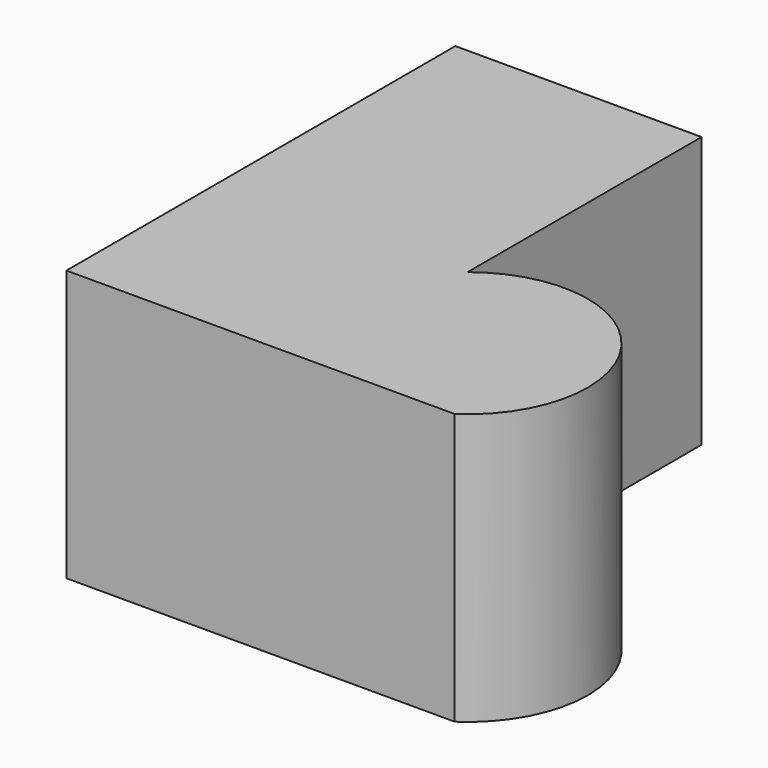
from build123d import *

# Parameters (mm, degrees)
F1_DEPTH = 25.4


with BuildPart() as f1:
    # F0 (on Top) → F1 (new body)
    with BuildSketch(Plane.XY):
        with BuildLine():
            Line((-36.404058, 0), (0, 0))
            ThreePointArc((0, 0), (2.810523, 16.024303), (-13.318557, 18.152701))
            Line((-13.318557, 18.152701), (-13.318557, 45.579065))
            Line((-13.318557, 45.579065), (-36.404058, 45.579065))
            Line((-36.404058, 45.579065), (-36.404058, 0))
        make_face()
    extrude(amount=F1_DEPTH)


solid = f1.part
